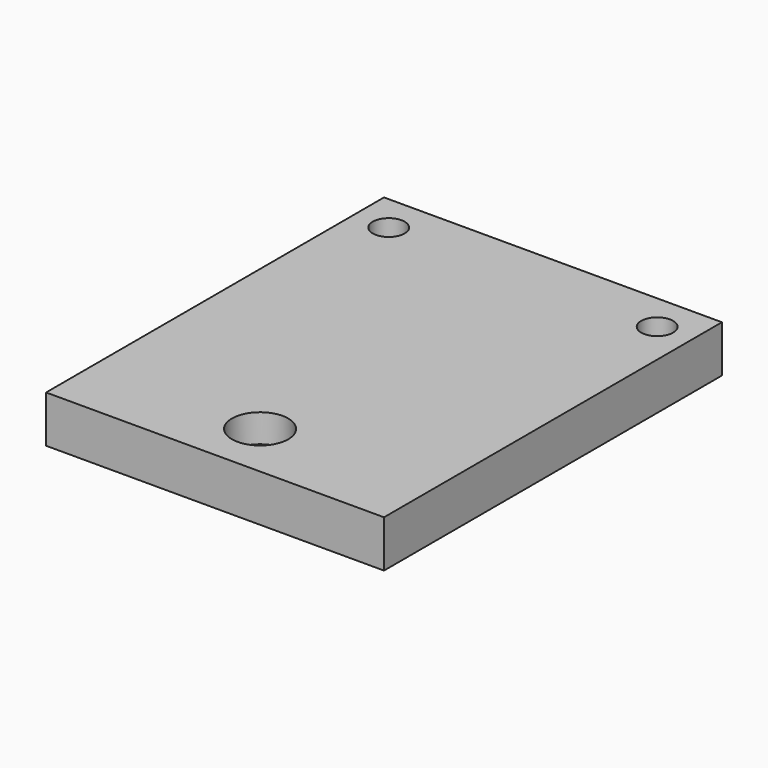
from build123d import *

# Parameters (mm, degrees)
SKETCH025_R     = 1.7
PAD021_DEPTH    = 100
BOX_W           = 36
BOX_H           = 45
BOX_DEPTH       = 5
SKETCH026_R     = 3
POCKET002_DEPTH = 3


with BuildPart() as pad021:
    # Sketch025 → Pad021 (new body)
    with BuildSketch(Plane.XY.offset(-50)):
        with Locations((0, -19)):
            Circle(SKETCH025_R)
        with Locations((-14.3, 16)):
            Circle(SKETCH025_R)
        with Locations((14.3, 16)):
            Circle(SKETCH025_R)
    extrude(amount=PAD021_DEPTH)


with BuildPart() as pocket002:
    # Box → Box (new body)
    with BuildSketch(Plane(origin=(-18, -25, -12.4), x_dir=(1, 0, 0), z_dir=(0, 0, 1))):
        with Locations((18, 22.5)):
            Rectangle(BOX_W, BOX_H)
    extrude(amount=BOX_DEPTH)

    # Cut006: cut Pad021
    add(pad021.part, mode=Mode.SUBTRACT)

    # Sketch026 → Pocket002 (cut)
    with BuildSketch(Plane.XY.offset(-7.4)):
        with Locations((0, -19)):
            Circle(SKETCH026_R)
    extrude(amount=-POCKET002_DEPTH, mode=Mode.SUBTRACT)


solid = pocket002.part
